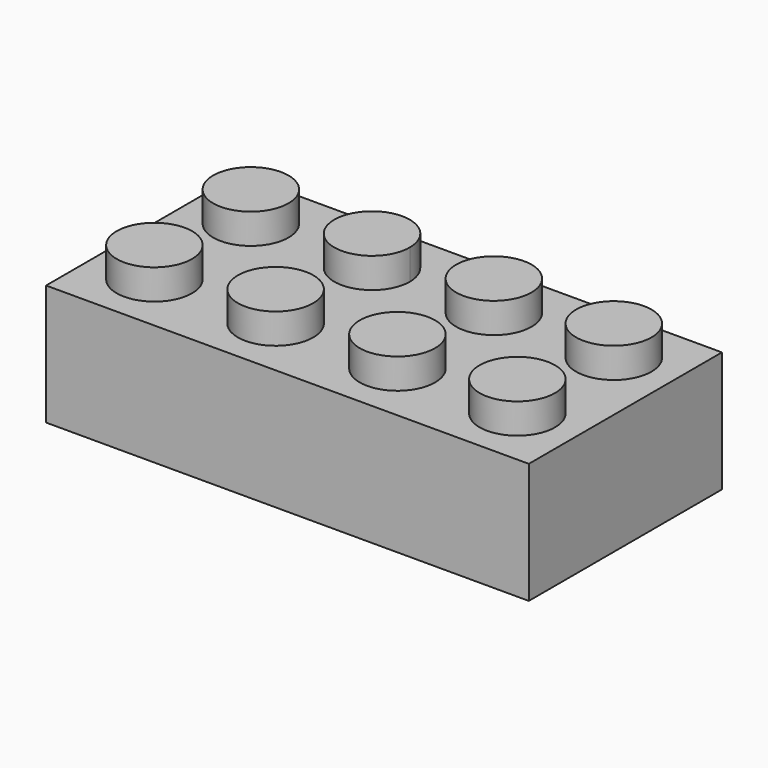
from build123d import *

# Parameters (mm, degrees)
F1_DEPTH = 8
F3_R     = 2.5
F4_DEPTH = 2
F5_T     = -1.5


with BuildPart() as f1:
    # F0 (on Top) → F1 (new body)
    with BuildSketch(Plane.XY):
        Polygon((-14.1176469211, 8), (-14.1176469211, 0), (1.8823530789, 0), (8.3823530789, 0), (9.1710221022, 0), (17.8823530789, 0), (17.8823530789, 7.8231371145), (17.8823530789, 8.2882069845), (17.8823530789, 16), (-14.1176469211, 16), (-14.1176469211, 8.0556720495), align=None)
    extrude(amount=F1_DEPTH)

    # F3 (on offset) → F4 (join)
    with BuildSketch(Plane.XY.offset(8)):
        with Locations((-10.1726641878, 12.0353270322)):
            Circle(F3_R)
        with Locations((-10.1726641878, 4.043020308)):
            Circle(F3_R)
        with Locations((-2.180356998, 4.0956009179)):
            Circle(F3_R)
        with BuildLine():
            ThreePointArc((-2.180356998, 14.5879076421), (-3.948123951, 10.3201406892), (0.319643002, 12.0879076421))
            ThreePointArc((0.319643002, 12.0879076421), (-0.412590045, 13.8556745951), (-2.180356998, 14.5879076421))
        make_face()
        with Locations((5.8951441832, 12.0879076421)):
            Circle(F3_R)
        with Locations((5.8951441832, 4.0956009179)):
            Circle(F3_R)
        with Locations((13.887451373, 4.043020308)):
            Circle(F3_R)
        with Locations((13.887451373, 12.0353270322)):
            Circle(F3_R)
    extrude(amount=F4_DEPTH)

    # F5
    f5_openings = [f1.faces().sort_by_distance(p)[0] for p in [
        (1.882353, 8, 0),
    ]]
    offset(amount=F5_T, openings=f5_openings, kind=Kind.INTERSECTION)


solid = f1.part
